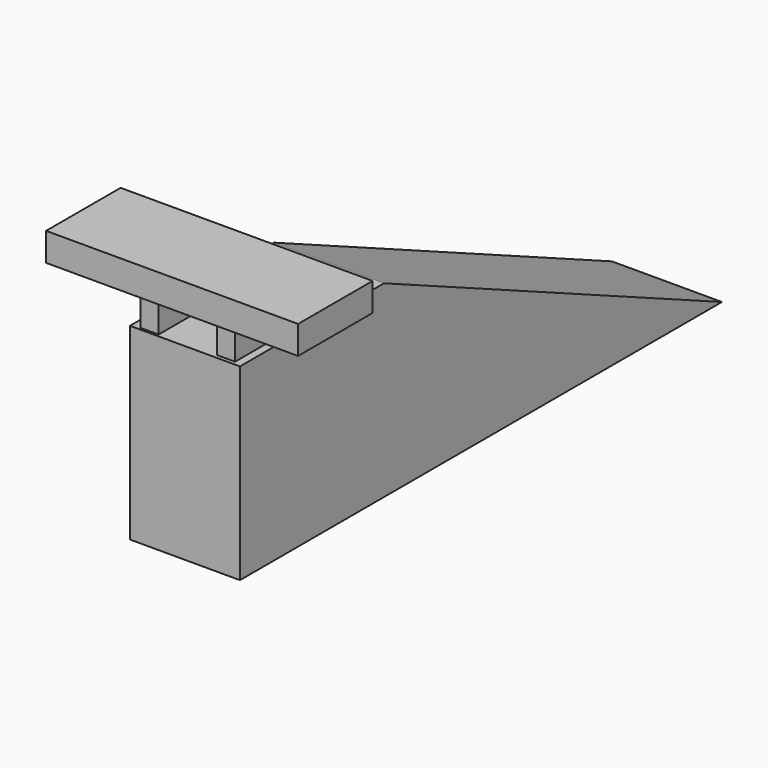
from build123d import *

# Parameters (mm, degrees)
F1_DEPTH = 30
F3_W     = 68.72177
F3_H     = 7.690884
F4_DEPTH = 25.4
F5_W     = 4.961859
F5_H     = 9.675625
F5_W_2   = 4.96186
F5_H_2   = 9.427534
F6_DEPTH = 22.098


with BuildPart() as f1:
    # F0 (on Right) → F1 (new body)
    with BuildSketch(Plane.YZ):
        Polygon((-47.27333, 22.66884), (-96.372128, 22.66884), (-96.372128, -28.644944), (67.905806, -28.644944), align=None)
    extrude(amount=F1_DEPTH)


with BuildPart() as f4:
    # F3 (on offset) → F4 (new body)
    with BuildSketch(Plane.XZ.offset(73.66)):
        with Locations((13.645117, 35.972077)):
            Rectangle(F3_W, F3_H)
    extrude(amount=F4_DEPTH)

    # F5 (on offset) → F6 (join)
    with BuildSketch(Plane.XZ.offset(73.66)):
        with Locations((4.837814, 27.536915)):
            Rectangle(F5_W, F5_H)
        with Locations((25.677629, 27.660961)):
            Rectangle(F5_W_2, F5_H_2)
    extrude(amount=F6_DEPTH)


solid = Compound([f1.part, f4.part])
